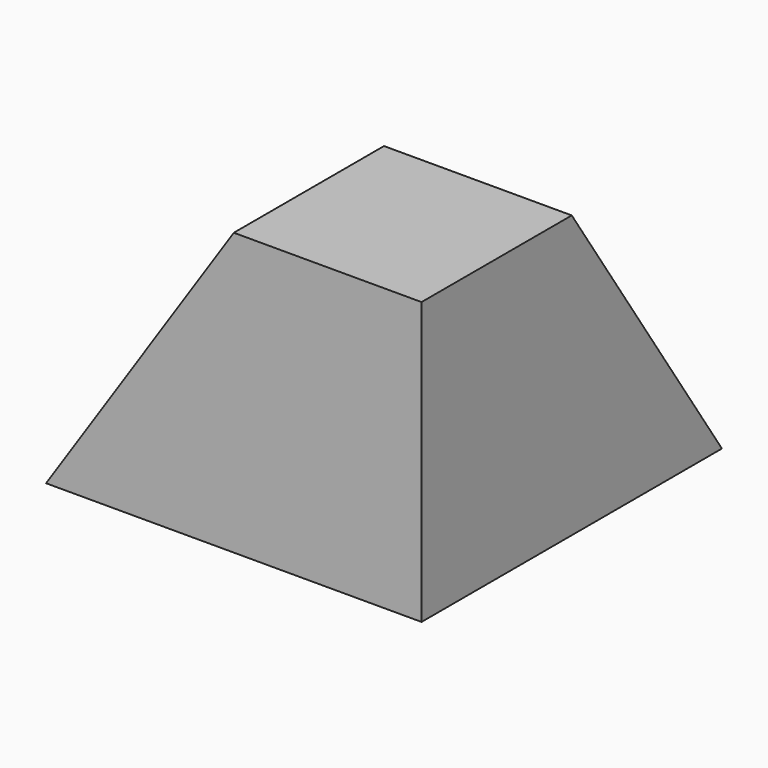
from build123d import *

# Parameters (mm, degrees)
F0_W     = 4
F0_H     = 4
F1_DEPTH = 3
F3_DEPTH = 25
F5_DEPTH = 25


with BuildPart() as f1:
    # F0 (on Top) → F1 (new body)
    with BuildSketch(Plane.XY):
        with Locations((2, 2)):
            Rectangle(F0_W, F0_H)
    extrude(amount=F1_DEPTH)

    # F2 (on face) → F3 (cut)
    with BuildSketch(Plane.YZ.offset(4)):
        Polygon((2, 3), (4, 0), (4, 3), align=None)
    extrude(amount=-F3_DEPTH, mode=Mode.SUBTRACT)

    # F4 (on face) → F5 (cut)
    with BuildSketch(Plane.XZ):
        Polygon((0, 0), (2, 3), (0, 3), align=None)
    extrude(amount=-F5_DEPTH, mode=Mode.SUBTRACT)


solid = f1.part
